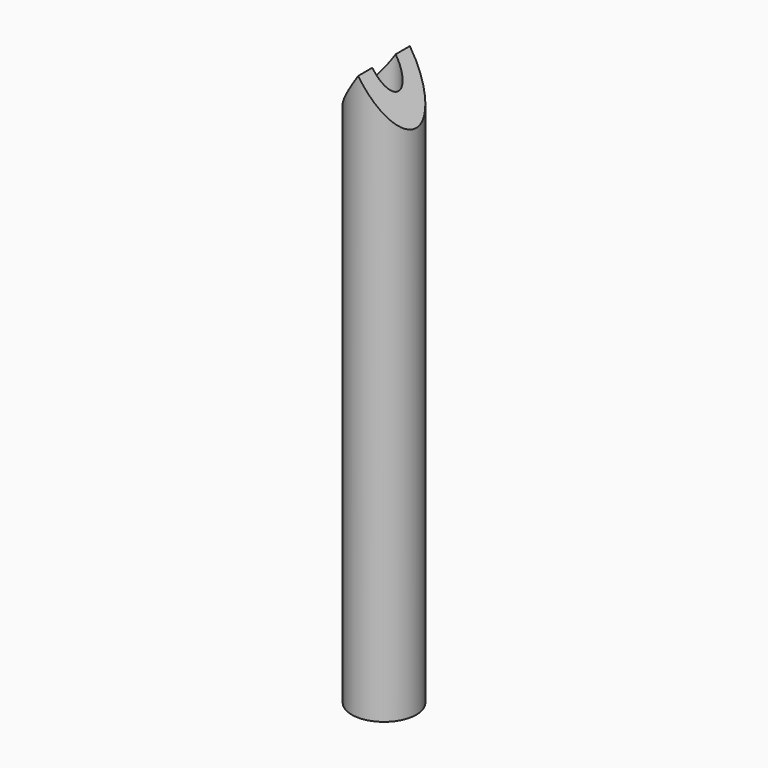
from build123d import *

# Parameters (mm, degrees)
F0_R     = 2
F0_R_2   = 0.9
F1_DEPTH = 35
F3_DEPTH = 12.5


with BuildPart() as f1:
    # F0 (on Top) → F1 (new body)
    with BuildSketch(Plane.XY):
        Circle(F0_R)
        Circle(F0_R_2, mode=Mode.SUBTRACT)
    extrude(amount=F1_DEPTH)

    # F2 (on Front) → F3 (cut, symmetric)
    with BuildSketch(Plane.XZ):
        Polygon((2, 35), (0, 35), (2, 32), align=None)
        Polygon((-2, 32), (0, 35), (-2, 35), align=None)
    extrude(amount=F3_DEPTH, both=True, mode=Mode.SUBTRACT)


solid = f1.part
